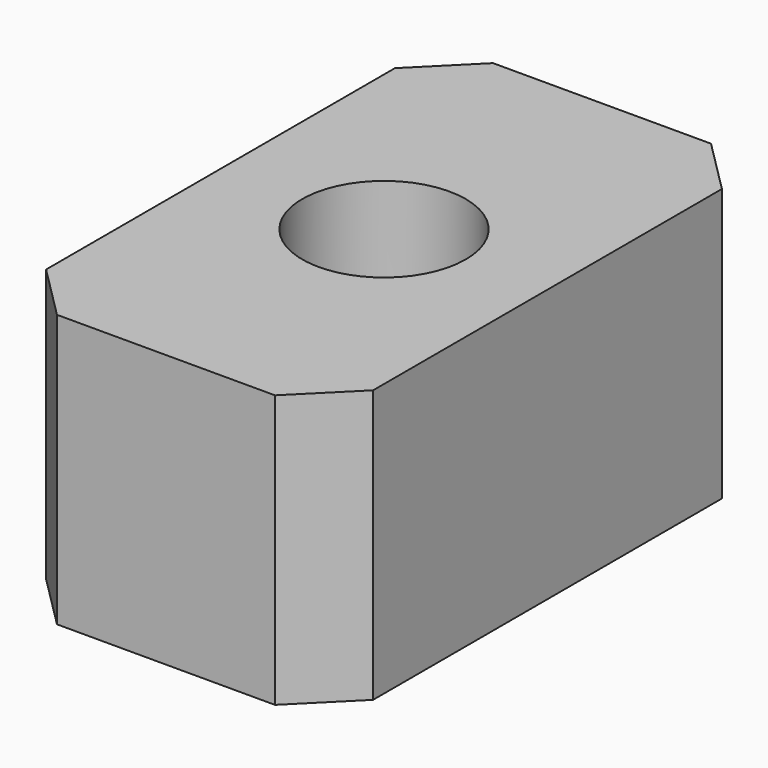
from build123d import *

# Parameters (mm, degrees)
F0_W     = 30
F0_H     = 50
F0_R     = 7.5
F1_DEPTH = 25
F2_SIZE  = 5


with BuildPart() as f1:
    # F0 (on Top) → F1 (new body)
    with BuildSketch(Plane.XY):
        Rectangle(F0_W, F0_H)
        Circle(F0_R, mode=Mode.SUBTRACT)
    extrude(amount=F1_DEPTH)

    # F2
    f2_edges = [f1.edges().sort_by_distance(p)[0] for p in [
        (15, -25, 12.5),
        (-15, -25, 12.5),
        (15, 25, 12.5),
        (-15, 25, 12.5),
    ]]
    chamfer(f2_edges, length=F2_SIZE)


solid = f1.part
